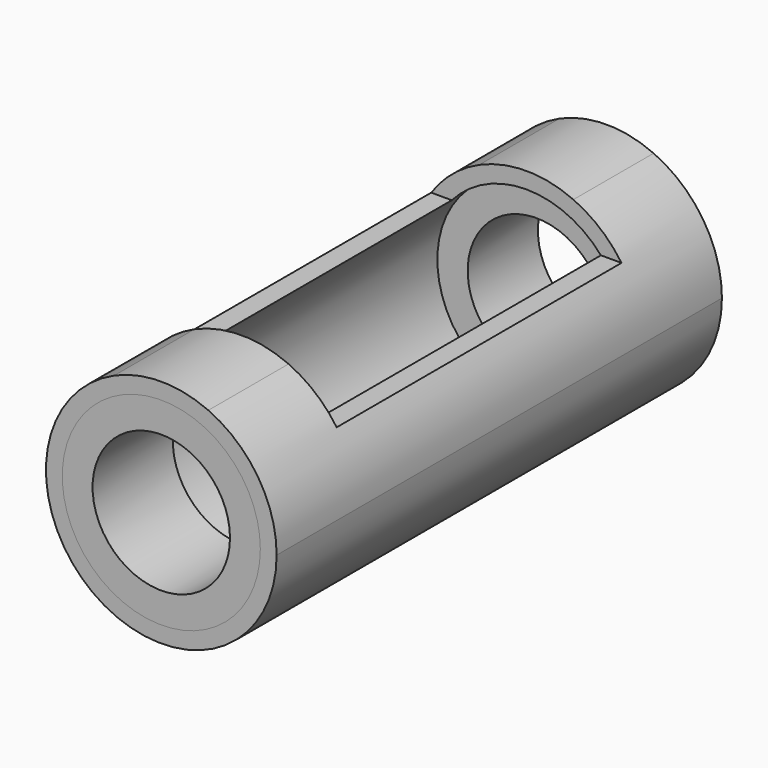
from build123d import *

# Parameters (mm, degrees)
F0_R     = 25.0825
F0_R_2   = 17.399
F1_DEPTH = 22.225
F2_DEPTH = 140.97
F3_W     = 90.17
F3_H     = 12.7
F4_DEPTH = 38.1
F5_R     = 25.0825
F5_R_2   = 17.399
F6_DEPTH = 25.4


with BuildPart() as f1:
    # F0 (on Front) → F1 (new body)
    with BuildSketch(Plane.XZ):
        Circle(F0_R)
        Circle(F0_R_2, mode=Mode.SUBTRACT)
    extrude(amount=F1_DEPTH)

    # F0 (on Front) → F2 (join)
    with BuildSketch(Plane.XZ):
        with BuildLine():
            ThreePointArc((-11.91365603, 26.67), (-15.8938070859, -24.5073661644), (29.21, 0))
            ThreePointArc((29.21, 0), (24.5073661644, 15.8938070859), (11.91365603, 26.67))
            Line((11.91365603, 26.67), (-11.91365603, 26.67))
        make_face()
        Circle(F0_R, mode=Mode.SUBTRACT)
        with BuildLine():
            Line((-11.91365603, 26.67), (11.91365603, 26.67))
            ThreePointArc((11.91365603, 26.67), (0, 29.21), (-11.91365603, 26.67))
        make_face()
    extrude(amount=F2_DEPTH)

    # F3 (on Right) → F4 (cut, symmetric)
    with BuildSketch(Plane.YZ):
        with Locations((-70.485, 22.86)):
            Rectangle(F3_W, F3_H)
    extrude(amount=F4_DEPTH, both=True, mode=Mode.SUBTRACT)


with BuildPart() as f6:
    # F5 (on face) → F6 (new body)
    with BuildSketch(Plane.XZ.offset(140.97)):
        Circle(F5_R)
        Circle(F5_R_2, mode=Mode.SUBTRACT)
    extrude(amount=-F6_DEPTH)


solid = Compound([f1.part, f6.part])
